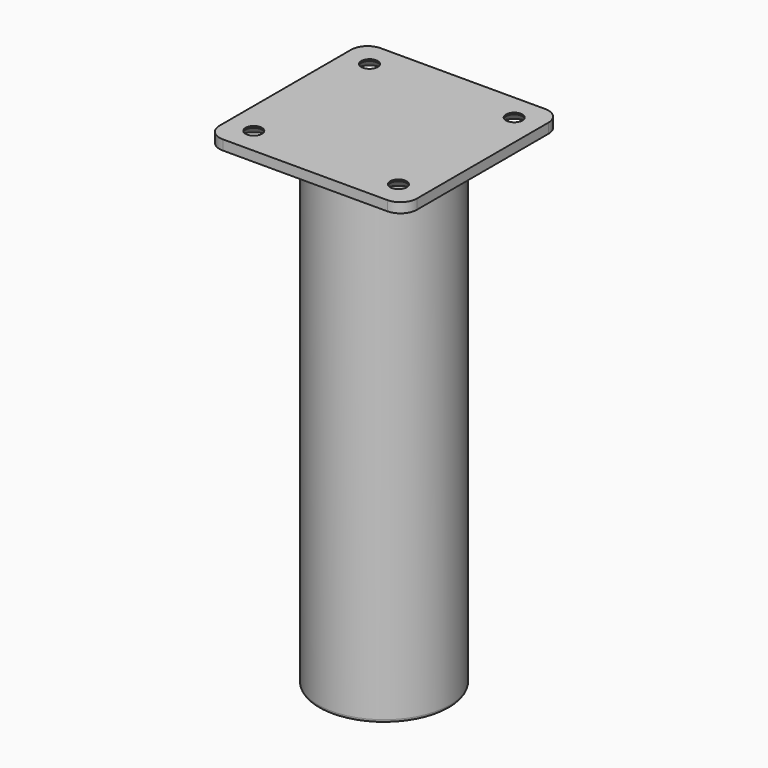
from build123d import *

# Parameters (mm, degrees)
F0_W           = 60
F0_H           = 60
F1_DEPTH       = 3
F2_R           = 20
F3_DEPTH       = 147
F4_R           = 5
F6_D           = 5
F6_CSINK_D     = 10
F6_CSINK_ANGLE = 90
F7_R           = 1


with BuildPart() as f1:
    # F0 (on Top) → F1 (new body)
    with BuildSketch(Plane.XY):
        Rectangle(F0_W, F0_H)
    extrude(amount=-F1_DEPTH)

    # F2 (on face) → F3 (join)
    with BuildSketch(Plane(origin=(0, 0, -3), x_dir=(1, 0, 0), z_dir=(0, 0, -1))):
        Circle(F2_R)
    extrude(amount=F3_DEPTH)

    # F4
    f4_edges = [f1.edges().sort_by_distance(p)[0] for p in [
        (-30, -30, -1.5),
        (30, -30, -1.5),
        (30, 30, -1.5),
        (-30, 30, -1.5),
    ]]
    fillet(f4_edges, radius=F4_R)

    # F6 (through all)
    with Locations(Plane(origin=(0, 0, -3), x_dir=(1, 0, 0), z_dir=(0, 0, -1))):
        with Locations((-22, 22), (22, 22), (22, -22), (-22, -22)):
            CounterSinkHole(F6_D / 2, F6_CSINK_D / 2, counter_sink_angle=F6_CSINK_ANGLE)

    # F7
    f7_edges = [f1.edges().sort_by_distance(p)[0] for p in [
        (-20, 0, -150),
    ]]
    fillet(f7_edges, radius=F7_R)


solid = f1.part
